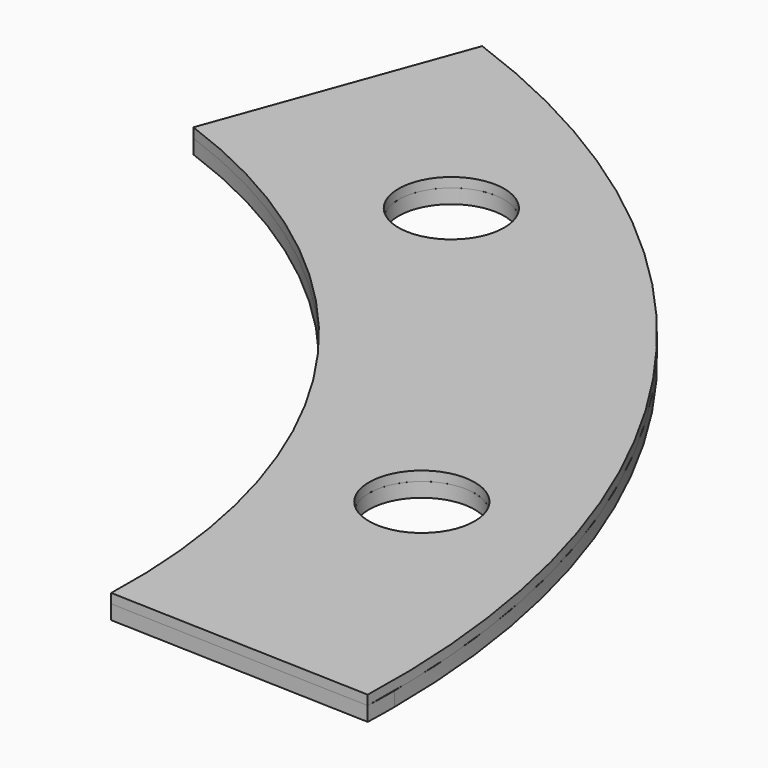
from build123d import *

# Parameters (mm, degrees)
F1_DEPTH = 3
F2_D     = 22
F4_DEPTH = 0.5
F5_DEPTH = 0.5
F6_R     = 11
F7_DEPTH = 2


with BuildPart() as f1:
    # F0 (on Top) → F1 (new body)
    with BuildSketch(Plane.XY):
        with BuildLine():
            ThreePointArc((167.5, 0), (137.2079674184, 96.0740530888), (57.288374007, 157.3985139816))
            Line((57.288374007, 157.3985139816), (47.8828200656, 131.55696691))
            ThreePointArc((47.8828200656, 131.55696691), (114.6812862005, 80.3007010891), (140, 0))
            ThreePointArc((140, 0), (139.9786773219, -2.4433369012), (139.9147157827, -4.8859295383))
            Line((139.9147157827, -4.8859295384), (167.3979635257, -5.8456656977))
            ThreePointArc((167.3979635257, -5.8456656977), (167.4744889387, -2.9232780782), (167.5, 0))
        make_face()
        with BuildLine():
            ThreePointArc((194.8812112687, -6.805401857), (194.9703005555, -3.4032192553), (195, 0))
            ThreePointArc((195, 0), (159.7346486364, 111.8474050885), (66.6939279485, 183.2400610533))
            Line((66.6939279485, 183.2400610533), (57.288374007, 157.3985139816))
            ThreePointArc((57.288374007, 157.3985139816), (137.2079674184, 96.0740530888), (167.5, 0))
            ThreePointArc((167.5, 0), (167.4744889387, -2.9232780782), (167.3979635257, -5.8456656977))
            Line((167.3979635257, -5.8456656977), (194.8812112687, -6.805401857))
        make_face()
    extrude(amount=F1_DEPTH)

    # F2 (through all)
    with Locations(Plane(origin=(0, 0, 0), x_dir=(1, 0, 0), z_dir=(0, 0, -1))):
        with Locations((98.454029759, -135.5103465578), (159.3019664794, -51.7603465578), (159.3019664794, 51.7603465578)):
            Hole(F2_D / 2)

    # F3 (on face) → F4 (cut)
    with BuildSketch(Plane.XY.offset(3)):
        Polygon((124.8575970531, 143.1473642588), (94.484128058, 109.9263876677), (115.9989386797, 88.2433280349), (133.3547979593, 54.9442470074), (143.3461606503, 28.3794309944), (145.5672979355, 3.4586815163), (160.543859005, 3.4586815163), (159.7588807344, 17.8357362747), (147.2658441237, 17.1536242262), (146.6199150106, 28.9839621818), (135.2427917925, 56.2990322707), (172.5227981806, 83.0503925681), (169.9266433716, 88.468439877), (135.8380764723, 61.6039372981), (133.3547979593, 66.6833594441), (166.6532456875, 94.9023813009), (163.7184619904, 99.9917068722), (131.1962753534, 72.4506676197), (129.3583959341, 77.6262283325), (160.1365059614, 104.9097552896), (156.3779860735, 110.2651243658), (126.4639943838, 81.376105547), (123.5579997301, 84.909029305), (152.1375179291, 114.2166703939), (147.7499727119, 119.2514494077), (120.7944825292, 89.7688865662), (118.305986066, 93.0192662431), (145.0375318527, 122.2568899393), (140.7417208361, 126.6233589756), (114.1578362166, 97.5472396562), (111.4842006113, 99.9917068722), (138.4624362817, 129.499147587), (134.5007407959, 133.1212697326), (107.7115796058, 103.8206291987), (105.3481470084, 105.9814821923), (132.3479912187, 135.512557244), (129.3493856729, 138.2541398801), (102.0875399782, 108.436500749), (100.0874832057, 110.2651243658), (127.7409781047, 140.5111297479), align=None)
    extrude(amount=-F4_DEPTH, mode=Mode.SUBTRACT)


with BuildPart() as f5:
    # F3 (on face) → F5 (new body)
    with BuildSketch(Plane.XY.offset(3)):
        Polygon((124.8575970531, 143.1473642588), (94.484128058, 109.9263876677), (115.9989386797, 88.2433280349), (133.3547979593, 54.9442470074), (143.3461606503, 28.3794309944), (145.5672979355, 3.4586815163), (160.543859005, 3.4586815163), (159.7588807344, 17.8357362747), (147.2658441237, 17.1536242262), (146.6199150106, 28.9839621818), (135.2427917925, 56.2990322707), (172.5227981806, 83.0503925681), (169.9266433716, 88.468439877), (135.8380764723, 61.6039372981), (133.3547979593, 66.6833594441), (166.6532456875, 94.9023813009), (163.7184619904, 99.9917068722), (131.1962753534, 72.4506676197), (129.3583959341, 77.6262283325), (160.1365059614, 104.9097552896), (156.3779860735, 110.2651243658), (126.4639943838, 81.376105547), (123.5579997301, 84.909029305), (152.1375179291, 114.2166703939), (147.7499727119, 119.2514494077), (120.7944825292, 89.7688865662), (118.305986066, 93.0192662431), (145.0375318527, 122.2568899393), (140.7417208361, 126.6233589756), (114.1578362166, 97.5472396562), (111.4842006113, 99.9917068722), (138.4624362817, 129.499147587), (134.5007407959, 133.1212697326), (107.7115796058, 103.8206291987), (105.3481470084, 105.9814821923), (132.3479912187, 135.512557244), (129.3493856729, 138.2541398801), (102.0875399782, 108.436500749), (100.0874832057, 110.2651243658), (127.7409781047, 140.5111297479), align=None)
    extrude(amount=-F5_DEPTH)


with BuildPart() as f7:
    # F6 (on face) → F7 (new body)
    with BuildSketch(Plane.XY.offset(3)):
        with BuildLine():
            Line((66.6939279485, 183.2400610533), (47.8828200656, 131.55696691))
            ThreePointArc((47.8828200656, 131.55696691), (116.0652601577, 78.2870064859), (139.9147157827, -4.8859295383))
            Line((139.9147157827, -4.8859295383), (194.8812112687, -6.805401857))
            ThreePointArc((194.8812112687, -6.805401857), (161.6623266482, 109.0426161768), (66.6939279485, 183.2400610533))
        make_face()
        Polygon((115.9989386797, 88.2433280349), (94.484128058, 109.9263876677), (124.8575970531, 143.1473642588), (127.7409781047, 140.5111297479), (100.0874832057, 110.2651243658), (102.0875399782, 108.436500749), (129.3493856729, 138.2541398801), (132.3479912187, 135.512557244), (105.3481470084, 105.9814821923), (107.7115796058, 103.8206291987), (134.5007407959, 133.1212697326), (138.4624362817, 129.499147587), (111.4842006113, 99.9917068722), (114.1578362166, 97.5472396562), (140.7417208361, 126.6233589756), (145.0375318527, 122.2568899393), (118.305986066, 93.0192662431), (120.7944825292, 89.7688865662), (147.7499727119, 119.2514494077), (152.1375179291, 114.2166703939), (123.5579997301, 84.909029305), (126.4639943838, 81.376105547), (156.3779860735, 110.2651243658), (160.1365059614, 104.9097552896), (129.3583959341, 77.6262283325), (131.1962753534, 72.4506676197), (163.7184619904, 99.9917068722), (166.6532456875, 94.9023813009), (133.3547979593, 66.6833594441), (135.8380764723, 61.6039372981), (169.9266433716, 88.468439877), (172.5227981806, 83.0503925681), (135.2427917925, 56.2990322707), (146.6199150106, 28.9839621818), (147.2658441237, 17.1536242262), (159.7588807344, 17.8357362747), (160.543859005, 3.4586815163), (145.5672979355, 3.4586815163), (143.3461606503, 28.3794309944), (133.3547979593, 54.9442470074), align=None, mode=Mode.SUBTRACT)
        with Locations((159.3019664794, 51.7603465578)):
            Circle(F6_R, mode=Mode.SUBTRACT)
        with Locations((98.454029759, 135.5103465578)):
            Circle(F6_R, mode=Mode.SUBTRACT)
        Polygon((124.8575970531, 143.1473642588), (94.484128058, 109.9263876677), (115.9989386797, 88.2433280349), (133.3547979593, 54.9442470074), (143.3461606503, 28.3794309944), (145.5672979355, 3.4586815163), (160.543859005, 3.4586815163), (159.7588807344, 17.8357362747), (147.2658441237, 17.1536242262), (146.6199150106, 28.9839621818), (135.2427917925, 56.2990322707), (172.5227981806, 83.0503925681), (169.9266433716, 88.468439877), (135.8380764723, 61.6039372981), (133.3547979593, 66.6833594441), (166.6532456875, 94.9023813009), (163.7184619904, 99.9917068722), (131.1962753534, 72.4506676197), (129.3583959341, 77.6262283325), (160.1365059614, 104.9097552896), (156.3779860735, 110.2651243658), (126.4639943838, 81.376105547), (123.5579997301, 84.909029305), (152.1375179291, 114.2166703939), (147.7499727119, 119.2514494077), (120.7944825292, 89.7688865662), (118.305986066, 93.0192662431), (145.0375318527, 122.2568899393), (140.7417208361, 126.6233589756), (114.1578362166, 97.5472396562), (111.4842006113, 99.9917068722), (138.4624362817, 129.499147587), (134.5007407959, 133.1212697326), (107.7115796058, 103.8206291987), (105.3481470084, 105.9814821923), (132.3479912187, 135.512557244), (129.3493856729, 138.2541398801), (102.0875399782, 108.436500749), (100.0874832057, 110.2651243658), (127.7409781047, 140.5111297479), align=None)
    extrude(amount=F7_DEPTH)


solid = Compound([f1.part, f5.part, f7.part])
